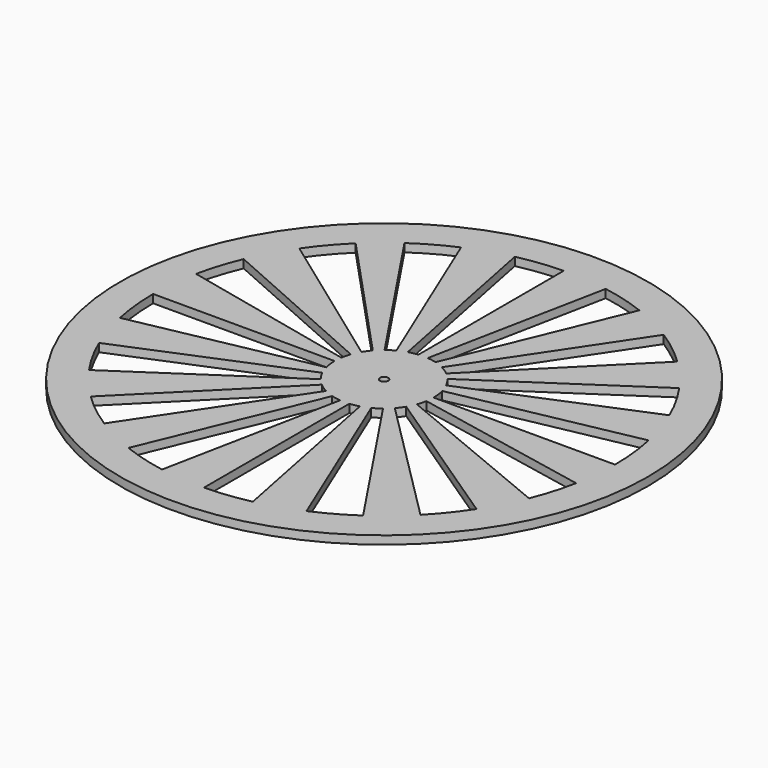
from build123d import *

# Parameters (mm, degrees)
F0_R     = 101.6
F0_R_2   = 1.5875
F1_DEPTH = 3.175


with BuildPart() as f1:
    # F0 (on Top) → F1 (new body)
    with BuildSketch(Plane.XY):
        with Locations((-222.0142495763, 0)):
            Circle(F0_R)
        with BuildLine():
            ThreePointArc((-135.0841670946, 18.6110386526), (-133.6081006594, 9.3575014662), (-133.1142495763, 0))
            ThreePointArc((-133.1142495763, 0), (-133.5138959069, -8.4200594054), (-134.7092417111, -16.7644147423))
            ThreePointArc((-134.7092417111, -16.7644147423), (-136.7474474497, -25.1551675627), (-139.5900616279, -33.3086061109))
            ThreePointArc((-139.5900616279, -33.3086061109), (-143.2102820197, -41.1478395221), (-147.5739459516, -48.598880607))
            ThreePointArc((-147.5739459516, -48.598880607), (-152.6399112932, -55.5914668612), (-158.360366293, -62.0595934804))
            ThreePointArc((-158.360366293, -62.0595934804), (-164.6813795848, -67.9422697482), (-171.5432871751, -73.183959679))
            ThreePointArc((-171.5432871751, -73.183959679), (-178.8814001833, -77.7352384909), (-186.626445729, -81.5531319991))
            ThreePointArc((-186.626445729, -81.5531319991), (-194.7054136888, -84.6016399514), (-203.0420278604, -86.8519706349))
            ThreePointArc((-203.0420278604, -86.8519706349), (-211.5895960266, -88.2866728242), (-220.2362495763, -88.8822182216))
            ThreePointArc((-220.2362495763, -88.8822182216), (-228.8678354502, -88.6354238477), (-237.4347591324, -87.552372241))
            ThreePointArc((-237.4347591324, -87.552372241), (-245.8871604157, -85.6346549479), (-254.1126475187, -82.9029725012))
            ThreePointArc((-254.1126475187, -82.9029725012), (-262.1294417887, -79.3346163649), (-269.7553877472, -74.9932912076))
            ThreePointArc((-269.7553877472, -74.9932912076), (-277.1006777085, -69.7760376894), (-283.8801808983, -63.8421220016))
            ThreePointArc((-283.8801808983, -63.8421220016), (-289.7820886129, -57.5389432672), (-295.0446428617, -50.6929152504))
            ThreePointArc((-295.0446428617, -50.6929152504), (-299.7753730949, -43.0861656349), (-303.7165832559, -35.0419558715))
            ThreePointArc((-303.7165832559, -35.0419558715), (-306.7658950479, -26.8396831175), (-308.9940333585, -18.3773559905))
            ThreePointArc((-308.9940333585, -18.3773559905), (-310.4328923453, -9.2387017963), (-310.9142495763, 0))
            ThreePointArc((-310.9142495763, 0), (-310.4386004074, 9.1839087597), (-309.0167427123, 18.2695426359))
            ThreePointArc((-309.0167427123, 18.2695426359), (-306.8338994736, 26.6239927753), (-303.8508380517, 34.7272628738))
            ThreePointArc((-303.8508380517, 34.7272628738), (-299.8878577, 42.8825274186), (-295.1147930895, 50.5917042416))
            ThreePointArc((-295.1147930895, 50.5917042416), (-289.8616154265, 57.4451472902), (-283.9683084188, 63.7566043084))
            ThreePointArc((-283.9683084188, 63.7566043084), (-278.492561142, 68.6542811679), (-272.6311232915, 73.0831177174))
            ThreePointArc((-272.6311232915, 73.0831177174), (-265.3020509448, 77.6490582859), (-257.5645783025, 81.482416063))
            ThreePointArc((-257.5645783025, 81.482416063), (-249.4916380011, 84.5470468163), (-241.1594570914, 86.814002495))
            ThreePointArc((-241.1594570914, 86.814002495), (-232.611492416, 88.2661228569), (-223.9627253989, 88.8786444652))
            ThreePointArc((-223.9627253989, 88.8786444652), (-215.3306033923, 88.6484002884), (-206.7615413815, 87.5817611876))
            ThreePointArc((-206.7615413815, 87.5817611876), (-198.3363015236, 85.6887669185), (-190.1344670232, 82.987284956))
            ThreePointArc((-190.1344670232, 82.987284956), (-182.1171041904, 79.4444950267), (-174.4875934361, 75.1294014094))
            ThreePointArc((-174.4875934361, 75.1294014094), (-167.1441754618, 69.9463005931), (-160.3616651357, 64.0481758663))
            ThreePointArc((-160.3616651357, 64.0481758663), (-154.4386858425, 57.7646361199), (-149.1532629181, 50.9361033373))
            ThreePointArc((-149.1532629181, 50.9361033373), (-144.3877117041, 43.32817349), (-140.4137383593, 35.2784150596))
            ThreePointArc((-140.4137383593, 35.2784150596), (-137.3378620047, 27.0761774964), (-135.0841670946, 18.6110386526))
        make_face(mode=Mode.SUBTRACT)
        with BuildLine():
            ThreePointArc((-203.224138098, -3.1359545012), (-203.0293328836, -1.5733525255), (-202.9642495763, 0))
            ThreePointArc((-202.9642495763, 0), (-203.130398482, 2.5105114713), (-203.6259469881, 4.9772309496))
            ThreePointArc((-203.6259469881, 4.9772309496), (-204.2151087323, 6.7891888481), (-204.9823245659, 8.5332309496))
            ThreePointArc((-204.9823245659, 8.5332309496), (-206.0377764326, 10.3756833938), (-207.2917159952, 12.0892309496))
            ThreePointArc((-207.2917159952, 12.0892309496), (-208.4843092912, 13.410563593), (-209.7950211992, 14.6148198028))
            ThreePointArc((-209.7950211992, 14.6148198028), (-211.5070394956, 15.8902811907), (-213.3510211992, 16.9661714622))
            ThreePointArc((-213.3510211992, 16.9661714622), (-215.0942112255, 17.7486779571), (-216.9070211992, 18.3526215649))
            ThreePointArc((-216.9070211992, 18.3526215649), (-218.6422260186, 18.7491855057), (-220.4068691602, 18.9820659623))
            ThreePointArc((-220.4068691602, 18.9820659623), (-222.1855449982, 19.04922985), (-223.9627253989, 18.9500908169))
            ThreePointArc((-223.9627253989, 18.9500908169), (-225.7577238112, 18.6785679497), (-227.5187253989, 18.237413356))
            ThreePointArc((-227.5187253989, 18.237413356), (-229.1968564876, 17.6440544648), (-230.8122822323, 16.8966600659))
            ThreePointArc((-230.8122822323, 16.8966600659), (-232.3508996999, 16.0017550357), (-233.7992765057, 14.9671520429))
            ThreePointArc((-233.7992765057, 14.9671520429), (-235.1447680812, 13.8018833422), (-236.3756280629, 12.5161219219))
            ThreePointArc((-236.3756280629, 12.5161219219), (-237.48111084, 11.1210926914), (-238.4515653653, 9.6289744861))
            ThreePointArc((-238.4515653653, 9.6289744861), (-239.2785194107, 8.0527937441), (-239.9547535309, 6.4063107836))
            ThreePointArc((-239.9547535309, 6.4063107836), (-240.4743640903, 4.7038996726), (-240.8328148031, 2.960422741))
            ThreePointArc((-240.8328148031, 2.960422741), (-241.0063027509, 1.4847276568), (-241.0642495763, 0))
            ThreePointArc((-241.0642495763, 0), (-240.9134990954, -2.3918335259), (-240.4636335537, -4.7458119279))
            ThreePointArc((-240.4636335537, -4.7458119279), (-239.9004906688, -6.5562855018), (-239.1601650874, -8.3018119279))
            ThreePointArc((-239.1601650874, -8.3018119279), (-238.1403018874, -10.1416436962), (-236.9238034356, -11.8578119279))
            ThreePointArc((-236.9238034356, -11.8578119279), (-235.7519928893, -13.1976099604), (-234.4602495763, -14.4221906796))
            ThreePointArc((-234.4602495763, -14.4221906796), (-232.751004782, -15.7360918799), (-230.9042495763, -16.848453935))
            ThreePointArc((-230.9042495763, -16.848453935), (-229.1625792566, -17.6579693844), (-227.3482495763, -18.288))
            ThreePointArc((-227.3482495763, -18.288), (-225.5864119038, -18.7120858353), (-223.7922495763, -18.9668451778))
            ThreePointArc((-223.7922495763, -18.9668451778), (-222.0142495763, -19.05), (-220.2362495763, -18.9668451778))
            ThreePointArc((-220.2362495763, -18.9668451778), (-218.4420872488, -18.7120858353), (-216.6802495763, -18.288))
            ThreePointArc((-216.6802495763, -18.288), (-214.9966529265, -17.7103313707), (-213.3743210538, -16.9780486254))
            ThreePointArc((-213.3743210538, -16.9780486254), (-211.8274171831, -16.0975447132), (-210.3694460406, -15.0765065786))
            ThreePointArc((-210.3694460406, -15.0765065786), (-209.0131359551, -13.9238480532), (-207.7703277374, -12.649632036))
            ThreePointArc((-207.7703277374, -12.649632036), (-206.6518713084, -11.2649826433), (-205.6675309773, -9.7819880927))
            ThreePointArc((-205.6675309773, -9.7819880927), (-204.8259001977, -8.2135951714), (-204.1343265453, -6.5734962087))
            ThreePointArc((-204.1343265453, -6.5734962087), (-203.5988475721, -4.876009539), (-203.224138098, -3.1359545012))
        make_face()
        with Locations((-222.0142495763, 0)):
            Circle(F0_R_2, mode=Mode.SUBTRACT)
        with BuildLine():
            Line((-238.4515653653, 9.6289744861), (-295.1147930895, 50.5917042416))
            ThreePointArc((-295.1147930895, 50.5917042416), (-299.8878577, 42.8825274186), (-303.8508380517, 34.7272628738))
            Line((-303.8508380517, 34.7272628738), (-239.9547535309, 6.4063107836))
            ThreePointArc((-239.9547535309, 6.4063107836), (-239.2785194107, 8.0527937441), (-238.4515653653, 9.6289744861))
        make_face()
        with BuildLine():
            ThreePointArc((-269.7553877472, -74.9932912076), (-262.1294417887, -79.3346163649), (-254.1126475187, -82.9029725012))
            Line((-254.1126475187, -82.9029725012), (-227.3482495763, -18.288))
            ThreePointArc((-227.3482495763, -18.288), (-229.1625792566, -17.6579693844), (-230.9042495763, -16.848453935))
            Line((-230.9042495763, -16.848453935), (-269.7553877472, -74.9932912076))
        make_face()
        with BuildLine():
            Line((-240.8328148031, 2.960422741), (-309.0167427123, 18.2695426359))
            ThreePointArc((-309.0167427123, 18.2695426359), (-310.4386004074, 9.1839087597), (-310.9142495763, 0))
            Line((-310.9142495763, 0), (-241.0642495763, 0))
            ThreePointArc((-241.0642495763, 0), (-241.0063027509, 1.4847276568), (-240.8328148031, 2.960422741))
        make_face()
        with BuildLine():
            Line((-213.3510211992, 16.9661714622), (-174.4875934361, 75.1294014094))
            ThreePointArc((-174.4875934361, 75.1294014094), (-182.1171041904, 79.4444950267), (-190.1344670232, 82.987284956))
            Line((-190.1344670232, 82.987284956), (-216.9070211992, 18.3526215649))
            ThreePointArc((-216.9070211992, 18.3526215649), (-215.0942112255, 17.7486779571), (-213.3510211992, 16.9661714622))
        make_face()
        with BuildLine():
            Line((-203.6259469881, 4.9772309496), (-135.0841670946, 18.6110386526))
            ThreePointArc((-135.0841670946, 18.6110386526), (-137.3378620047, 27.0761774964), (-140.4137383593, 35.2784150596))
            Line((-140.4137383593, 35.2784150596), (-204.9823245659, 8.5332309496))
            ThreePointArc((-204.9823245659, 8.5332309496), (-204.2151087323, 6.7891888481), (-203.6259469881, 4.9772309496))
        make_face()
        with BuildLine():
            ThreePointArc((-308.9940333585, -18.3773559905), (-306.7658950479, -26.8396831175), (-303.7165832559, -35.0419558715))
            Line((-303.7165832559, -35.0419558715), (-239.1601650874, -8.3018119279))
            ThreePointArc((-239.1601650874, -8.3018119279), (-239.9004906688, -6.5562855018), (-240.4636335537, -4.7458119279))
            Line((-240.4636335537, -4.7458119279), (-308.9940333585, -18.3773559905))
        make_face()
        with BuildLine():
            Line((-220.4068691602, 18.9820659623), (-206.7615413815, 87.5817611876))
            ThreePointArc((-206.7615413815, 87.5817611876), (-215.3306033923, 88.6484002884), (-223.9627253989, 88.8786444652))
            Line((-223.9627253989, 88.8786444652), (-223.9627253989, 18.9500908169))
            ThreePointArc((-223.9627253989, 18.9500908169), (-222.1855449982, 19.04922985), (-220.4068691602, 18.9820659623))
        make_face()
        with BuildLine():
            ThreePointArc((-237.4347591324, -87.552372241), (-228.8678354502, -88.6354238477), (-220.2362495763, -88.8822182216))
            Line((-220.2362495763, -88.8822182216), (-220.2362495763, -18.9668451778))
            ThreePointArc((-220.2362495763, -18.9668451778), (-222.0142495763, -19.05), (-223.7922495763, -18.9668451778))
            Line((-223.7922495763, -18.9668451778), (-237.4347591324, -87.552372241))
        make_face()
        with BuildLine():
            Line((-207.2917159952, 12.0892309496), (-149.1532629181, 50.9361033373))
            ThreePointArc((-149.1532629181, 50.9361033373), (-154.4386858425, 57.7646361199), (-160.3616651357, 64.0481758663))
            Line((-160.3616651357, 64.0481758663), (-209.7950211992, 14.6148198028))
            ThreePointArc((-209.7950211992, 14.6148198028), (-208.4843092912, 13.410563593), (-207.2917159952, 12.0892309496))
        make_face()
        with BuildLine():
            Line((-227.5187253989, 18.237413356), (-241.1594570914, 86.814002495))
            ThreePointArc((-241.1594570914, 86.814002495), (-249.4916380011, 84.5470468163), (-257.5645783025, 81.482416063))
            Line((-257.5645783025, 81.482416063), (-230.8122822323, 16.8966600659))
            ThreePointArc((-230.8122822323, 16.8966600659), (-229.1968564876, 17.6440544648), (-227.5187253989, 18.237413356))
        make_face()
        with BuildLine():
            ThreePointArc((-203.0420278604, -86.8519706349), (-194.7054136888, -84.6016399514), (-186.626445729, -81.5531319991))
            Line((-186.626445729, -81.5531319991), (-213.3743210538, -16.9780486254))
            ThreePointArc((-213.3743210538, -16.9780486254), (-214.9966529265, -17.7103313707), (-216.6802495763, -18.288))
            Line((-216.6802495763, -18.288), (-203.0420278604, -86.8519706349))
        make_face()
        with BuildLine():
            ThreePointArc((-295.0446428617, -50.6929152504), (-289.7820886129, -57.5389432672), (-283.8801808983, -63.8421220016))
            Line((-283.8801808983, -63.8421220016), (-234.4602495763, -14.4221906796))
            ThreePointArc((-234.4602495763, -14.4221906796), (-235.7519928893, -13.1976099604), (-236.9238034356, -11.8578119279))
            Line((-236.9238034356, -11.8578119279), (-295.0446428617, -50.6929152504))
        make_face()
        with BuildLine():
            ThreePointArc((-171.5432871751, -73.183959679), (-164.6813795848, -67.9422697482), (-158.360366293, -62.0595934804))
            Line((-158.360366293, -62.0595934804), (-207.7703277374, -12.649632036))
            ThreePointArc((-207.7703277374, -12.649632036), (-209.0131359551, -13.9238480532), (-210.3694460406, -15.0765065786))
            Line((-210.3694460406, -15.0765065786), (-171.5432871751, -73.183959679))
        make_face()
        with BuildLine():
            ThreePointArc((-147.5739459516, -48.598880607), (-143.2102820197, -41.1478395221), (-139.5900616279, -33.3086061109))
            Line((-139.5900616279, -33.3086061109), (-204.1343265453, -6.5734962087))
            ThreePointArc((-204.1343265453, -6.5734962087), (-204.8259001977, -8.2135951714), (-205.6675309773, -9.7819880927))
            Line((-205.6675309773, -9.7819880927), (-147.5739459516, -48.598880607))
        make_face()
        with BuildLine():
            ThreePointArc((-134.7092417111, -16.7644147423), (-133.5138959069, -8.4200594054), (-133.1142495763, 0))
            Line((-133.1142495763, 0), (-202.9642495763, 0))
            ThreePointArc((-202.9642495763, 0), (-203.0293328836, -1.5733525255), (-203.224138098, -3.1359545012))
            Line((-203.224138098, -3.1359545012), (-134.7092417111, -16.7644147423))
        make_face()
        with BuildLine():
            Line((-233.7992765057, 14.9671520429), (-272.6311232915, 73.0831177174))
            ThreePointArc((-272.6311232915, 73.0831177174), (-278.492561142, 68.6542811679), (-283.9683084188, 63.7566043084))
            Line((-283.9683084188, 63.7566043084), (-236.3756280629, 12.5161219219))
            ThreePointArc((-236.3756280629, 12.5161219219), (-235.1447680812, 13.8018833422), (-233.7992765057, 14.9671520429))
        make_face()
    extrude(amount=F1_DEPTH)


solid = f1.part
